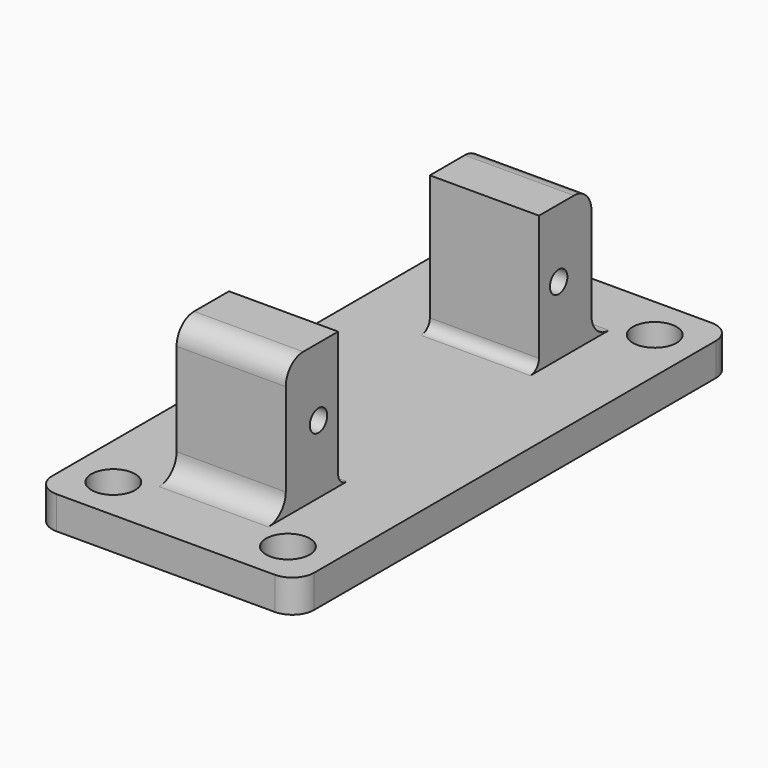
from build123d import *

# Parameters (mm, degrees)
CYLINDER_R        = 1
CYLINDER_DEPTH    = 28
CYLINDER004_R     = 2
CYLINDER004_DEPTH = 10
CYLINDER005_R     = 2
CYLINDER005_DEPTH = 10
CYLINDER003_R     = 2
CYLINDER003_DEPTH = 10
CYLINDER001_R     = 1
CYLINDER001_DEPTH = 28
CYLINDER002_R     = 2
CYLINDER002_DEPTH = 10
BOX002_W          = 16
BOX002_H          = 23
BOX002_DEPTH      = 12.5
BOX001_W          = 10
BOX001_H          = 35
BOX001_DEPTH      = 12.5
BOX_W             = 24
BOX_H             = 50
BOX_DEPTH         = 3
FILLET_R          = 2
FILLET001_R       = 1
FILLET002_R       = 2
FILLET003_R       = 2


with BuildPart() as cylinder:
    # Cylinder → Cylinder (new body)
    with BuildSketch(Plane(origin=(0, 11.25, 9.25), x_dir=(0, 0, -1), z_dir=(1, 0, 0))):
        Circle(CYLINDER_R)
    extrude(amount=CYLINDER_DEPTH)


with BuildPart() as cylinder004:
    # Cylinder004 → Cylinder004 (new body)
    with BuildSketch(Plane(origin=(20, 4, 0), x_dir=(1, 0, 0), z_dir=(0, 0, 1))):
        Circle(CYLINDER004_R)
    extrude(amount=CYLINDER004_DEPTH)


with BuildPart() as cylinder005:
    # Cylinder005 → Cylinder005 (new body)
    with BuildSketch(Plane(origin=(20, 46, 0), x_dir=(1, 0, 0), z_dir=(0, 0, 1))):
        Circle(CYLINDER005_R)
    extrude(amount=CYLINDER005_DEPTH)


with BuildPart() as cylinder003:
    # Cylinder003 → Cylinder003 (new body)
    with BuildSketch(Plane(origin=(4, 46, 0), x_dir=(1, 0, 0), z_dir=(0, 0, 1))):
        Circle(CYLINDER003_R)
    extrude(amount=CYLINDER003_DEPTH)


with BuildPart() as cylinder001:
    # Cylinder001 → Cylinder001 (new body)
    with BuildSketch(Plane(origin=(0, 38.75, 9.25), x_dir=(0, 0, -1), z_dir=(1, 0, 0))):
        Circle(CYLINDER001_R)
    extrude(amount=CYLINDER001_DEPTH)


with BuildPart() as fusion001:
    # Cylinder002 → Cylinder002 (new body)
    with BuildSketch(Plane(origin=(4, 4, 0), x_dir=(1, 0, 0), z_dir=(0, 0, 1))):
        Circle(CYLINDER002_R)
    extrude(amount=CYLINDER002_DEPTH)

    # Fusion001: union Cylinder, Cylinder004, Cylinder005, Cylinder003, Cylinder001
    add(cylinder.part)
    add(cylinder004.part)
    add(cylinder005.part)
    add(cylinder003.part)
    add(cylinder001.part)


with BuildPart() as cube001:
    # Box002 → Box002 (new body)
    with BuildSketch(Plane(origin=(7, 13.5, 3), x_dir=(1, 0, 0), z_dir=(0, 0, 1))):
        with Locations((8, 11.5)):
            Rectangle(BOX002_W, BOX002_H)
    extrude(amount=BOX002_DEPTH)


with BuildPart() as cut:
    # Box001 → Box001 (new body)
    with BuildSketch(Plane(origin=(7, 7.5, 3), x_dir=(1, 0, 0), z_dir=(0, 0, 1))):
        with Locations((5, 17.5)):
            Rectangle(BOX001_W, BOX001_H)
    extrude(amount=BOX001_DEPTH)

    # Cut: cut Cube001
    add(cube001.part, mode=Mode.SUBTRACT)


with BuildPart() as fillet003:
    # Box → Box (new body)
    with BuildSketch(Plane.XY):
        with Locations((12, 25)):
            Rectangle(BOX_W, BOX_H)
    extrude(amount=BOX_DEPTH)

    # Fillet
    fillet_edges = [fillet003.edges().sort_by_distance(p)[0] for p in [
        (0, 0, 1.5),
        (0, 50, 1.5),
        (24, 0, 1.5),
        (24, 50, 1.5),
    ]]
    fillet(fillet_edges, radius=FILLET_R)

    # Fusion: union Cut
    add(cut.part)

    # Cut001: cut Fusion001
    add(fusion001.part, mode=Mode.SUBTRACT)

    # Fillet001
    fillet001_edges = [fillet003.edges().sort_by_distance(p)[0] for p in [
        (12, 13.5, 3),
        (12, 36.5, 3),
    ]]
    fillet(fillet001_edges, radius=FILLET001_R)

    # Fillet002
    fillet002_edges = [fillet003.edges().sort_by_distance(p)[0] for p in [
        (12, 7.5, 3),
        (12, 42.5, 3),
    ]]
    fillet(fillet002_edges, radius=FILLET002_R)

    # Fillet003
    fillet003_edges = [fillet003.edges().sort_by_distance(p)[0] for p in [
        (12, 7.5, 15.5),
        (12, 42.5, 15.5),
    ]]
    fillet(fillet003_edges, radius=FILLET003_R)


solid = fillet003.part
